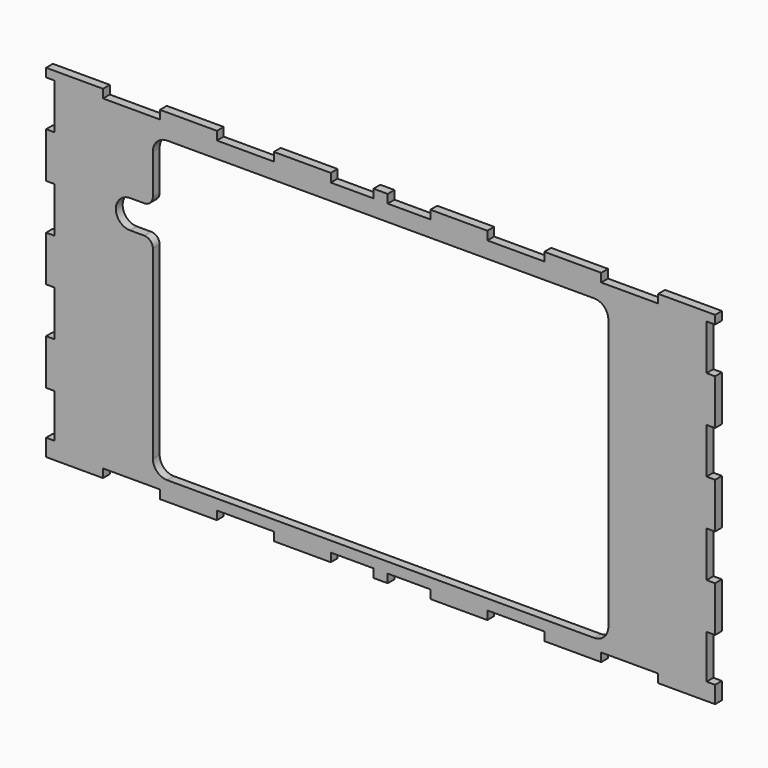
from build123d import *

# Parameters (mm, degrees)
F1_DEPTH = 3


with BuildPart() as f1:
    # F0 (on Front) → F1 (new body)
    with BuildSketch(Plane.XZ):
        Polygon((-17.5, 110.7), (-17.5, 113.7), (-37.5, 113.7), (-37.5, 110.7), (-34.5, 110.7), (-34.5, 94.7), (-37.5, 94.7), (-37.5, 78.7), (-34.5, 78.7), (-34.5, 62.7), (-37.5, 62.7), (-37.5, 46.7), (-34.5, 46.7), (-34.5, 30.7), (-37.5, 30.7), (-37.5, 14.7), (-34.5, 14.7), (-34.5, -0.7), (-37.5, -0.7), (-37.5, -6.7), (-17.5, -6.7), (-17.5, -3.7), (2.5, -3.7), (2.5, -6.7), (22.5, -6.7), (22.5, -3.7), (42.5, -3.7), (42.5, -6.7), (62.5, -6.7), (62.5, -3.7), (77.5, -3.7), (77.5, -6.7), (82.5, -6.7), (82.5, -3.7), (97.5, -3.7), (97.5, -6.7), (117.5, -6.7), (117.5, -3.7), (137.5, -3.7), (137.5, -6.7), (157.5, -6.7), (157.5, -3.7), (177.5, -3.7), (177.5, -6.7), (197.5, -6.7), (197.5, -0.7), (194.5, -0.7), (194.5, 14.7), (197.5, 14.7), (197.5, 30.7), (194.5, 30.7), (194.5, 46.7), (197.5, 46.7), (197.5, 62.7), (194.5, 62.7), (194.5, 78.7), (197.5, 78.7), (197.5, 94.7), (194.5, 94.7), (194.5, 110.7), (197.5, 110.7), (197.5, 113.7), (177.5, 113.7), (177.5, 110.7), (157.5, 110.7), (157.5, 113.7), (137.5, 113.7), (137.5, 110.7), (117.5, 110.7), (117.5, 113.7), (97.5, 113.7), (97.5, 110.7), (82.5, 110.7), (82.5, 113.7), (77.5, 113.7), (77.5, 110.7), (62.5, 110.7), (62.5, 113.7), (42.5, 113.7), (42.5, 110.7), (22.5, 110.7), (22.5, 113.7), (2.5, 113.7), (2.5, 110.7), align=None)
        with BuildLine():
            Line((155, 0), (5, 0))
            ThreePointArc((5, 0), (1.464466, 1.464466), (0, 5))
            Line((0, 5), (0, 70))
            ThreePointArc((0, 70), (-0.87868, 72.12132), (-3, 73))
            Line((-3, 73), (-8, 73))
            ThreePointArc((-8, 73), (-13, 78), (-8, 83))
            Line((-8, 83), (-3, 83))
            ThreePointArc((-3, 83), (-0.87868, 83.87868), (0, 86))
            Line((0, 86), (0, 100))
            ThreePointArc((0, 100), (1.464466, 103.535534), (5, 105))
            Line((5, 105), (155, 105))
            ThreePointArc((155, 105), (158.535534, 103.535534), (160, 100))
            Line((160, 100), (160, 5))
            ThreePointArc((160, 5), (158.535534, 1.464466), (155, 0))
        make_face(mode=Mode.SUBTRACT)
    extrude(amount=-F1_DEPTH)


solid = f1.part
